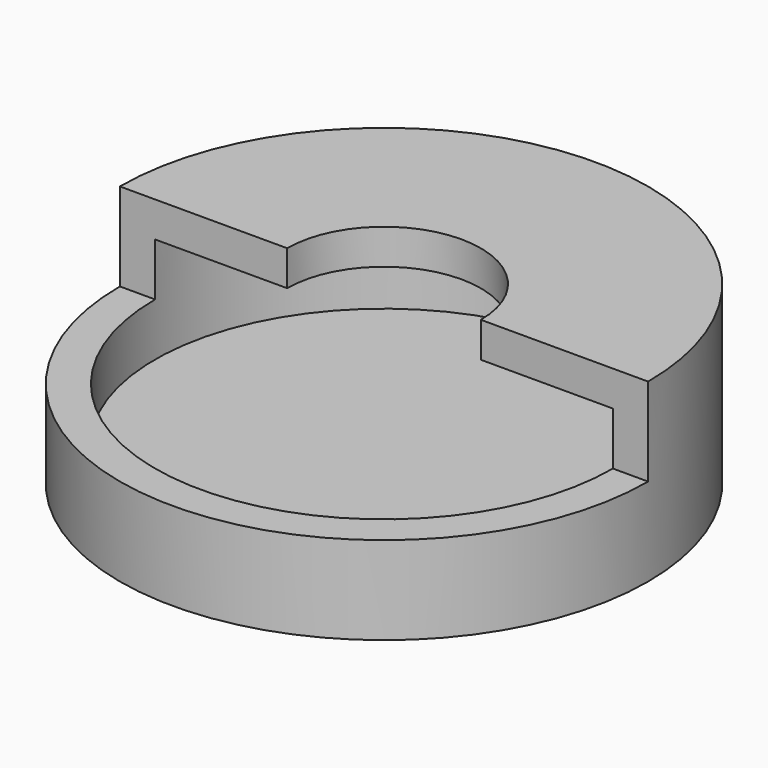
from build123d import *

# Parameters (mm, degrees)
F0_R     = 19.05
F1_DEPTH = 12.7
F3_DEPTH = 6.35
F4_T     = -2.54
F6_DEPTH = 5.08


with BuildPart() as f1:
    # F0 (on Top) → F1 (new body)
    with BuildSketch(Plane.XY):
        Circle(F0_R)
    extrude(amount=F1_DEPTH)

    # F2 (on face) → F3 (cut)
    with BuildSketch(Plane.XY.offset(12.7)):
        with BuildLine():
            ThreePointArc((19.05, 0), (0, -19.05), (-19.05, 0))
            Line((-19.05, 0), (-19.05, -19.4337088615))
            Line((-19.05, -19.4337088615), (19.2441120744, -19.4337088615))
            Line((19.2441120744, -19.4337088615), (19.2441120744, 0))
            Line((19.2441120744, 0), (19.05, 0))
        make_face()
        with BuildLine():
            Line((19.05, 0), (-19.05, 0))
            ThreePointArc((-19.05, 0), (0, -19.05), (19.05, 0))
        make_face()
    extrude(amount=-F3_DEPTH, mode=Mode.SUBTRACT)

    # F4
    f4_openings = [f1.faces().sort_by_distance(p)[0] for p in [
        (0, 0, 9.525),
        (0, -8.085071, 6.35),
    ]]
    offset(amount=F4_T, openings=f4_openings)

    # F5 (on face) → F6 (cut)
    with BuildSketch(Plane.XY.offset(12.7)):
        with BuildLine():
            Line((-6.985, 0), (6.985, 0))
            ThreePointArc((6.985, 0), (0, 6.985), (-6.985, 0))
        make_face()
    extrude(amount=-F6_DEPTH, mode=Mode.SUBTRACT)


solid = f1.part
